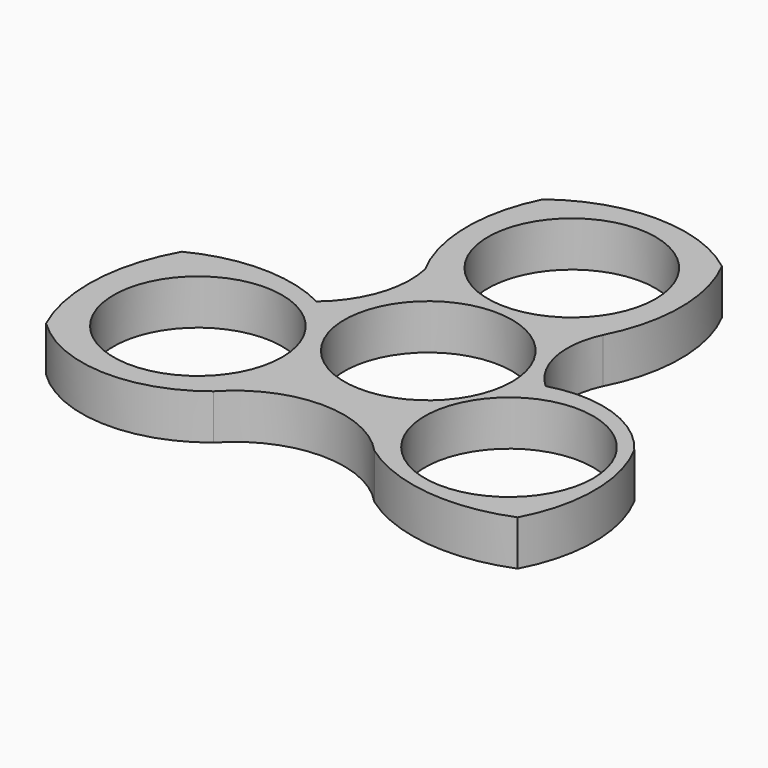
from build123d import *

# Parameters (mm, degrees)
F0_R     = 11
F0_R_2   = 10.95
F1_DEPTH = 5.9


with BuildPart() as f1:
    # F0 (on Top) → F1 (new body)
    with BuildSketch(Plane.XY):
        with BuildLine():
            ThreePointArc((11.730995, 12.470796), (14.110285, 22.184889), (11.730995, 31.898983))
            ThreePointArc((11.730995, 31.898983), (0.004584, 35.972541), (-11.766609, 32.030255))
            ThreePointArc((-11.766609, 32.030255), (-14.017526, 22.21855), (-11.504066, 12.470796))
            ThreePointArc((-11.504066, 12.470796), (-11.864245, 5.649237), (-15.704755, 0))
            ThreePointArc((-15.704755, 0), (-24.499949, 2.118642), (-33.295143, 0))
            ThreePointArc((-33.295143, 0), (-36.260507, -10.392088), (-34.214042, -21.003444))
            ThreePointArc((-34.214042, -21.003444), (-23.058742, -25.84676), (-11.504066, -22.05362))
            ThreePointArc((-11.504066, -22.05362), (-1.002343, -17.44401), (9.499379, -22.05362))
            ThreePointArc((9.499379, -22.05362), (19.502935, -25.862729), (30.109012, -24.416506))
            ThreePointArc((30.109012, -24.416506), (32.50861, -14.89932), (30.109012, -5.382133))
            ThreePointArc((30.109012, -5.382133), (23.012884, -0.194927), (14.225156, 0))
            ThreePointArc((14.225156, 0), (10.928416, 5.825466), (11.730995, 12.470796))
        make_face()
        with Locations((-21.743245, -11.814438)):
            Circle(F0_R, mode=Mode.SUBTRACT)
        with Locations((19.738559, -12.864611)):
            Circle(F0_R, mode=Mode.SUBTRACT)
        with Locations((0, -1.381866)):
            Circle(F0_R_2, mode=Mode.SUBTRACT)
        with Locations((0, 22.05362)):
            Circle(F0_R_2, mode=Mode.SUBTRACT)
    extrude(amount=F1_DEPTH)


solid = f1.part
